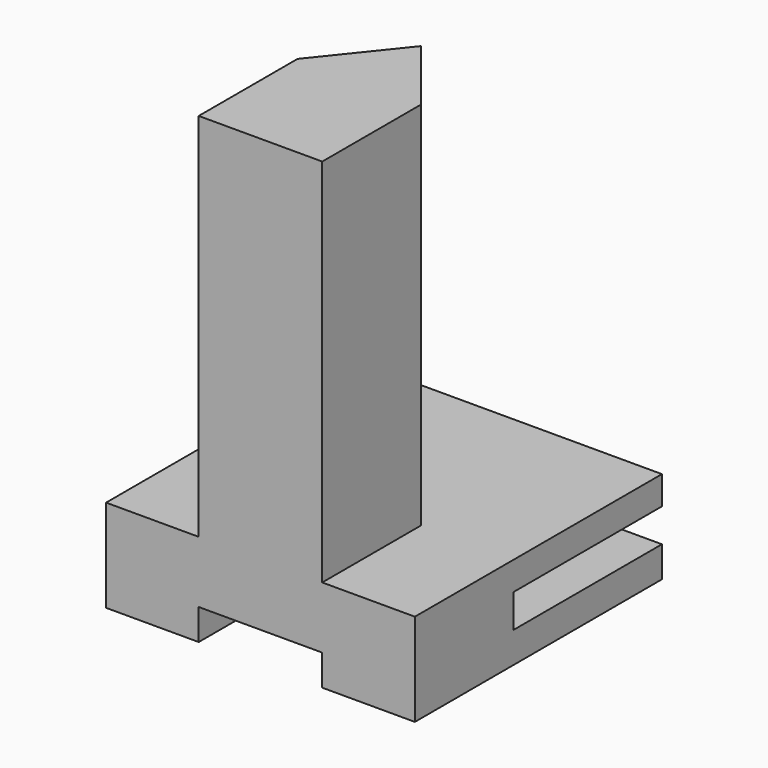
from build123d import *

# Parameters (mm, degrees)
F0_W     = 50
F0_H     = 50
F1_DEPTH = 15
F3_DEPTH = 60
F5_DEPTH = 5
F6_W     = 30
F6_H     = 5.4
F7_DEPTH = 30


with BuildPart() as f1:
    # F0 (on Top) → F1 (new body)
    with BuildSketch(Plane.XY):
        with Locations((25, -25)):
            Rectangle(F0_W, F0_H)
    extrude(amount=F1_DEPTH)

    # F2 (on face) → F3 (join)
    with BuildSketch(Plane.XY.offset(15)):
        Polygon((15, -30), (15, -50), (35, -50), (35, -30), (25, -17.510004), align=None)
    extrude(amount=F3_DEPTH)

    # F4 (on face) → F5 (cut)
    with BuildSketch(Plane(origin=(0, 0, 0), x_dir=(1, 0, 0), z_dir=(0, 0, -1))):
        Polygon((35, 50), (15, 50), (15, 30), (25, 17.510004), (35, 30), align=None)
    extrude(amount=-F5_DEPTH, mode=Mode.SUBTRACT)

    # F6 (on face) → F7 (cut)
    with BuildSketch(Plane.YZ.offset(50)):
        with Locations((-15, 7.7)):
            Rectangle(F6_W, F6_H)
    extrude(amount=-F7_DEPTH, mode=Mode.SUBTRACT)


solid = f1.part
